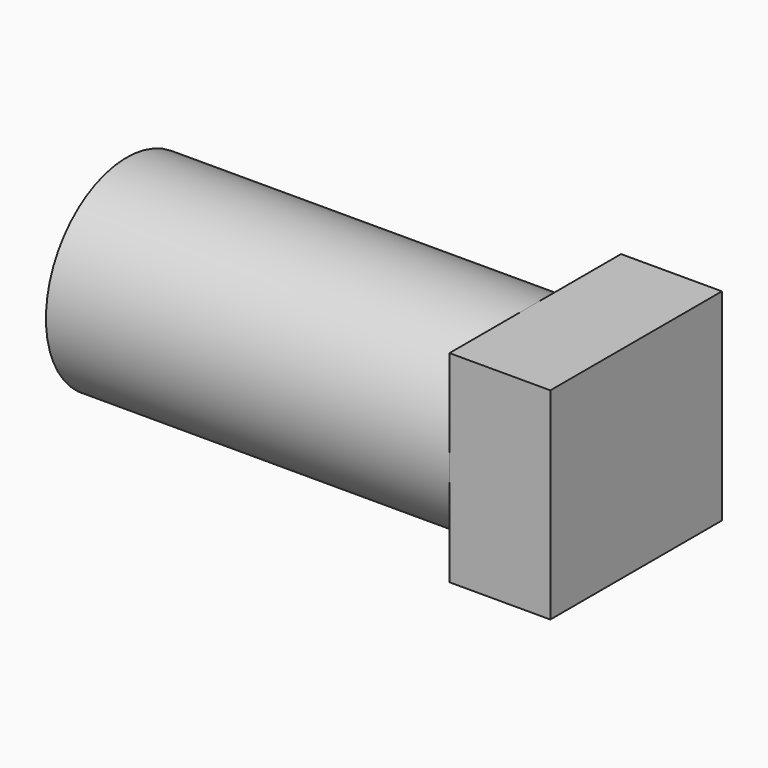
from build123d import *

# Parameters (mm, degrees)
F0_R     = 2.5
F1_DEPTH = 10
F3_DEPTH = 2.5


with BuildPart() as f1:
    # F0 (on Right) → F1 (new body)
    with BuildSketch(Plane.YZ):
        Circle(F0_R)
    extrude(amount=F1_DEPTH)

    # F2 (on face) → F3 (join)
    with BuildSketch(Plane.YZ.offset(10)):
        with BuildLine():
            ThreePointArc((0, 2.5), (-1.767767, 1.767767), (-2.5, 0))
            ThreePointArc((-2.5, 0), (-1.767767, -1.767767), (0, -2.5))
            ThreePointArc((0, -2.5), (1.767767, -1.767767), (2.5, 0))
            ThreePointArc((2.5, 0), (1.767767, 1.767767), (0, 2.5))
        make_face()
        with BuildLine():
            Line((-2.5, 2.5), (-2.5, 0))
            ThreePointArc((-2.5, 0), (-1.767767, 1.767767), (0, 2.5))
            Line((0, 2.5), (-2.5, 2.5))
        make_face()
        with BuildLine():
            Line((2.814407, 2.5), (0, 2.5))
            ThreePointArc((0, 2.5), (1.767767, 1.767767), (2.5, 0))
            ThreePointArc((2.5, 0), (1.767767, -1.767767), (0, -2.5))
            Line((0, -2.5), (2.814407, -2.5))
            Line((2.814407, -2.5), (2.814407, 2.5))
        make_face()
        with BuildLine():
            ThreePointArc((0, -2.5), (-1.767767, -1.767767), (-2.5, 0))
            Line((-2.5, 0), (-2.5, -2.5))
            Line((-2.5, -2.5), (0, -2.5))
        make_face()
    extrude(amount=F3_DEPTH)


solid = f1.part
